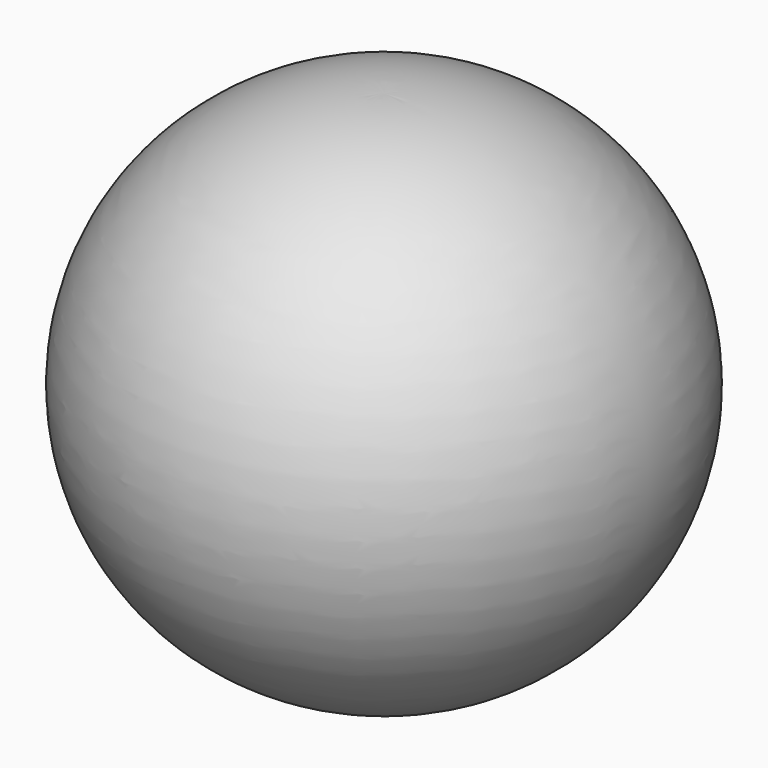
from build123d import *


with BuildPart() as f2:
    # F1 (on face) → F2 (revolve)
    with BuildSketch(Plane.XZ):
        with BuildLine():
            ThreePointArc((0, -32.576285), (39.310186, 5.523715), (0, 43.623715))
            Line((0, 43.623715), (0, -32.576285))
        make_face()
    revolve(axis=Axis((0, 0, 5.523715), (0, 0, 1)))


solid = f2.part
